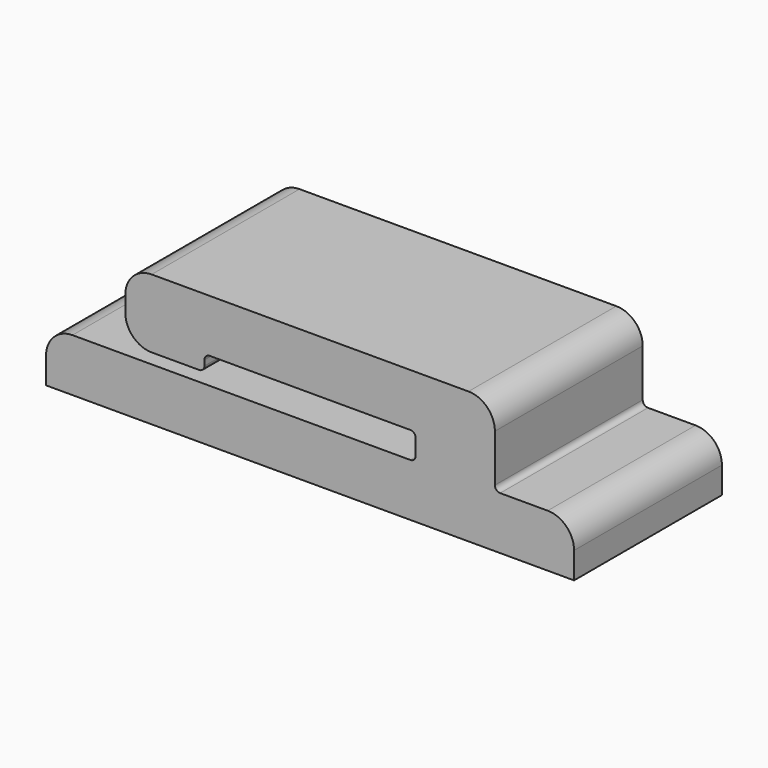
from build123d import *

# Parameters (mm, degrees)
F1_DEPTH = 8.89


with BuildPart() as f1:
    # F0 (on Front) → F1 (new body)
    with BuildSketch(Plane.XZ):
        with BuildLine():
            Line((-102.723063, 1.27), (-102.723063, 0))
            Line((-102.723063, 0), (-77.323063, 0))
            Line((-77.323063, 0), (-77.323063, 1.27))
            ThreePointArc((-77.323063, 1.27), (-77.695037, 2.168026), (-78.593063, 2.54))
            Line((-78.593063, 2.54), (-80.879063, 2.54))
            ThreePointArc((-80.879063, 2.54), (-81.058668, 2.614395), (-81.133063, 2.794))
            Line((-81.133063, 2.794), (-81.133063, 5.08))
            ThreePointArc((-81.133063, 5.08), (-81.505037, 5.978026), (-82.403063, 6.35))
            Line((-82.403063, 6.35), (-97.643063, 6.35))
            ThreePointArc((-97.643063, 6.35), (-98.541089, 5.978026), (-98.913063, 5.08))
            Line((-98.913063, 5.08), (-98.913063, 4.318))
            ThreePointArc((-98.913063, 4.318), (-98.541089, 3.419974), (-97.643063, 3.048))
            Line((-97.643063, 3.048), (-95.357063, 3.048))
            ThreePointArc((-95.357063, 3.048), (-95.177458, 3.122395), (-95.103063, 3.302))
            Line((-95.103063, 3.302), (-95.103063, 3.556))
            ThreePointArc((-95.103063, 3.556), (-95.028668, 3.735605), (-94.849063, 3.81))
            Line((-94.849063, 3.81), (-85.197063, 3.81))
            ThreePointArc((-85.197063, 3.81), (-85.017458, 3.735605), (-84.943063, 3.556))
            Line((-84.943063, 3.556), (-84.943063, 2.794))
            ThreePointArc((-84.943063, 2.794), (-85.017458, 2.614395), (-85.197063, 2.54))
            Line((-85.197063, 2.54), (-101.453063, 2.54))
            ThreePointArc((-101.453063, 2.54), (-102.351089, 2.168026), (-102.723063, 1.27))
        make_face()
    extrude(amount=F1_DEPTH)


solid = f1.part
